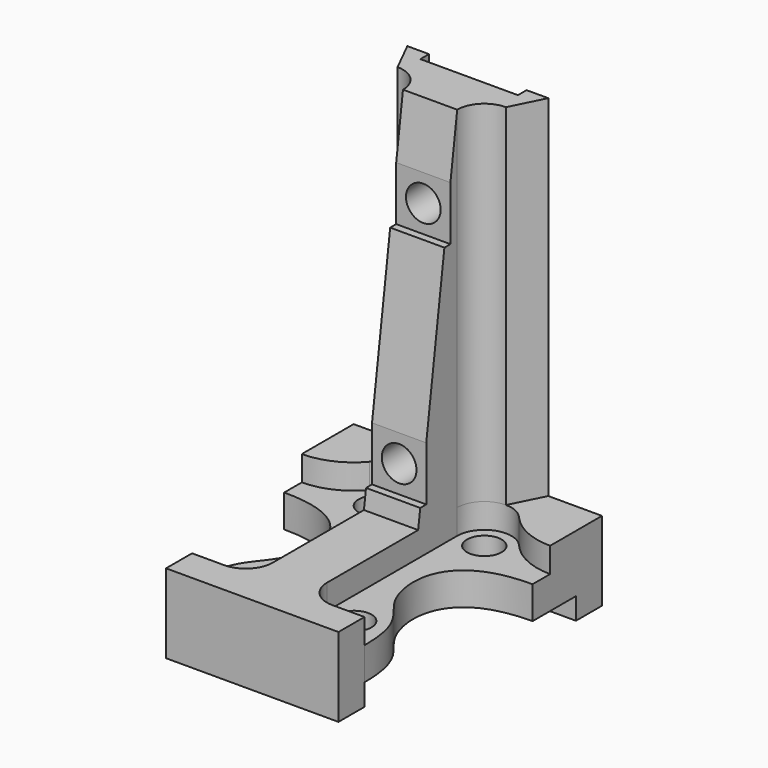
from build123d import *

# Parameters (mm, degrees)
SKETCH_R        = 1.6
PAD_DEPTH       = 5.3
SKETCH001_W     = 22.9
SKETCH001_H     = 3
SKETCH001_W_2   = 15.9
PAD001_DEPTH    = 2
POCKET_DEPTH    = 2.3
PAD002_DEPTH    = 32.3
POCKET001_DEPTH = 10
SKETCH007_W     = 9
SKETCH007_H     = 39.6
POCKET002_DEPTH = 1
SKETCH008_R     = 1.6
POCKET003_DEPTH = 10
SKETCH009_W     = 0.696594
SKETCH009_H     = 5
SKETCH009_W_2   = 0.696595
POCKET004_DEPTH = 5


with BuildPart() as part:
    # Sketch (on Face1 of ReferenceBinder) → Pad (new body)
    with BuildSketch(Plane.XY.offset(8)):
        with BuildLine():
            Line((3, 23), (25.9, 23))
            Line((25.9, 23), (25.9, 15))
            add(Edge.make_bspline(
                [(25.9, 15), (18.45, 15), (18.45, 5), (22.4, 5), (22.4, 0)],
                knots=[0, 0, 0, 0, 0.5, 1, 1, 1, 1], degree=3))
            Line((22.4, 0), (22.4, -3))
            Line((22.4, -3), (6.5, -3))
            Line((6.5, -3), (6.5, 0))
            add(Edge.make_bspline(
                [(3, 15), (10.45, 15), (10.45, 5), (6.5, 5), (6.5, 0)],
                knots=[0, 0, 0, 0, 0.5, 1, 1, 1, 1], degree=3))
            Line((3, 15), (3, 23))
        make_face()
        with Locations((9.45, 17.5)):
            Circle(SKETCH_R, mode=Mode.SUBTRACT)
        with Locations((19.45, 17.5)):
            Circle(SKETCH_R, mode=Mode.SUBTRACT)
        with Locations((19.45, 2.5)):
            Circle(SKETCH_R, mode=Mode.SUBTRACT)
        with Locations((9.45, 2.5)):
            Circle(SKETCH_R, mode=Mode.SUBTRACT)
    extrude(amount=PAD_DEPTH)

    # Sketch001 (on Face1 of ReferenceBinder) → Pad001 (join)
    with BuildSketch(Plane.XY.offset(8)):
        with Locations((14.45, 21.5)):
            Rectangle(SKETCH001_W, SKETCH001_H)
        with Locations((14.45, -1.5)):
            Rectangle(SKETCH001_W_2, SKETCH001_H)
    extrude(amount=-PAD001_DEPTH)

    # Sketch002 (on Face5 of Pad001) → Pocket (cut)
    with BuildSketch(Plane.XY.offset(13.3)):
        with BuildLine():
            ThreePointArc((9.449999, 0), (11.217763, 0.732229), (11.95, 2.499988))
            Line((11.95, 17.5), (11.95, 2.499988))
            ThreePointArc((11.95, 17.5), (10.314365, 19.84582), (7.547701, 19.122116))
            ThreePointArc((3, 17.023415), (5.504303, 17.573395), (7.547701, 19.122116))
            Line((3, 17.023415), (3, 15))
            Line((3, 15), (6.5, 0))
            Line((9.449999, 0), (6.5, 0))
        make_face()
        with BuildLine():
            ThreePointArc((16.95, 2.499988), (17.682233, 0.732233), (19.449988, 0))
            Line((19.449988, 0), (22.4, 0))
            Line((22.4, 0), (25.9, 15))
            Line((25.9, 15), (25.9, 17.023415))
            ThreePointArc((21.352299, 19.122116), (23.395697, 17.573395), (25.9, 17.023415))
            ThreePointArc((21.352299, 19.122116), (18.585635, 19.84582), (16.95, 17.5))
            Line((16.95, 17.5), (16.95, 2.499988))
        make_face()
    extrude(amount=-POCKET_DEPTH, mode=Mode.SUBTRACT)

    # Sketch005 (on Face5 of Pocket) → Pad002 (join)
    with BuildSketch(Plane.XY.offset(13.3)):
        with BuildLine():
            Line((7.95, 23), (20.95, 23))
            Line((20.95, 23), (19.45, 20))
            ThreePointArc((19.45, 20), (17.682233, 19.267767), (16.95, 17.5))
            Line((16.95, 17.5), (16.95, 13))
            Line((16.95, 13), (11.95, 13))
            Line((11.95, 13), (11.95, 17.5))
            ThreePointArc((11.95, 17.5), (11.217767, 19.267767), (9.45, 20))
            Line((9.45, 20), (7.95, 23))
        make_face()
    extrude(amount=PAD002_DEPTH)

    # Sketch006 (on Face39 of Pad002) → Pocket001 (cut)
    with BuildSketch(Plane.YZ.offset(16.95)):
        Polygon((17.5, 45.6), (13, 13.3), (13, 45.6), align=None)
    extrude(amount=-POCKET001_DEPTH, mode=Mode.SUBTRACT)

    # Sketch007 (on Face6 of Pocket001) → Pocket002 (cut)
    with BuildSketch(Plane(origin=(0, 23, 0), x_dir=(-1, 0, 0), z_dir=(0, 1, 0))):
        with Locations((-14.45, 25.8)):
            Rectangle(SKETCH007_W, SKETCH007_H)
    extrude(amount=-POCKET002_DEPTH, mode=Mode.SUBTRACT)

    # Sketch008 (on Face10 of Pocket002) → Pocket003 (cut)
    with BuildSketch(Plane(origin=(0, 22, 0), x_dir=(-1, 0, 0), z_dir=(0, 1, 0))):
        with Locations((-14.45, 37.5)):
            Circle(SKETCH008_R)
        with Locations((-14.45, 17.5)):
            Circle(SKETCH008_R)
    extrude(amount=-POCKET003_DEPTH, mode=Mode.SUBTRACT)

    # Sketch009 (on Face41 of Pocket003) → Pocket004 (cut)
    with BuildSketch(Plane.YZ.offset(16.95)):
        with Locations((16.371517, 37.5)):
            Rectangle(SKETCH009_W, SKETCH009_H)
        with Locations((13.58514, 17.5)):
            Rectangle(SKETCH009_W_2, SKETCH009_H)
    extrude(amount=-POCKET004_DEPTH, mode=Mode.SUBTRACT)


solid = part.part
